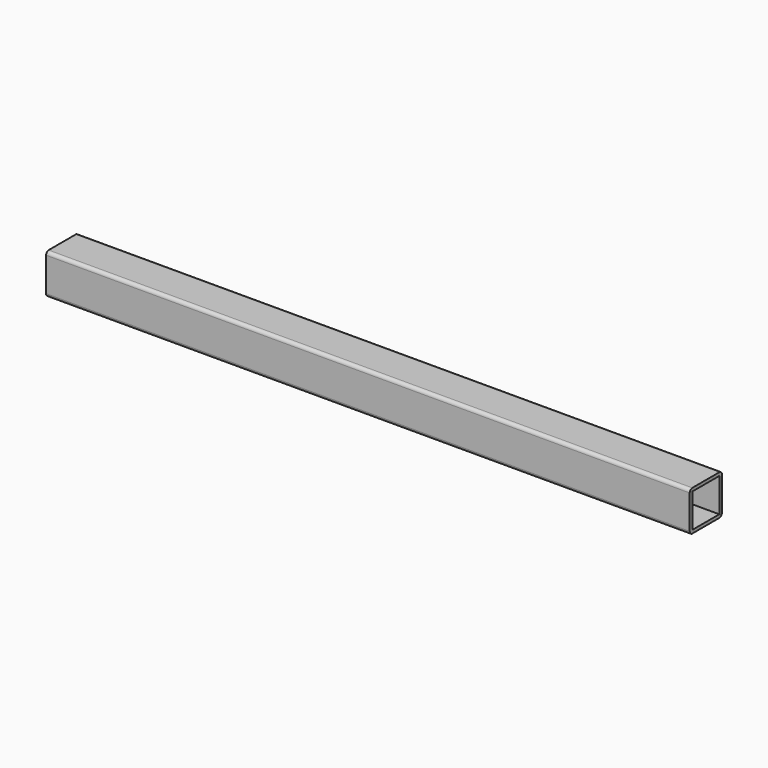
from build123d import *

# Parameters (mm, degrees)
F0_W     = 42
F0_H     = 42
F1_DEPTH = 400


with BuildPart() as f1:
    # F0 (on Right) → F1 (new body, symmetric)
    with BuildSketch(Plane.YZ):
        with BuildLine():
            Line((21, 25), (-21, 25))
            ThreePointArc((-21, 25), (-23.828427, 23.828427), (-25, 21))
            Line((-25, 21), (-25, -21))
            ThreePointArc((-25, -21), (-23.828427, -23.828427), (-21, -25))
            Line((-21, -25), (21, -25))
            ThreePointArc((21, -25), (23.828427, -23.828427), (25, -21))
            Line((25, -21), (25, 21))
            ThreePointArc((25, 21), (23.828427, 23.828427), (21, 25))
        make_face()
        Rectangle(F0_W, F0_H, mode=Mode.SUBTRACT)
    extrude(amount=F1_DEPTH, both=True)


solid = f1.part
